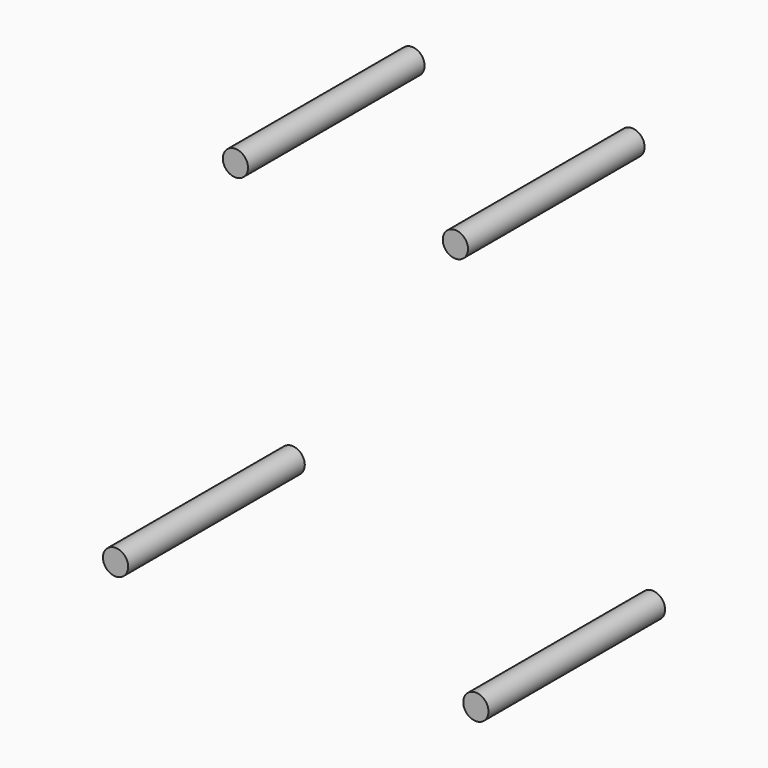
from build123d import *

# Parameters (mm, degrees)
CYLINDER040_R          = 1.6
CYLINDER040_DEPTH      = 28
CYLINDER040_ROLL_ANGLE = 90
CYLINDER037_R          = 1.6
CYLINDER037_DEPTH      = 28
CYLINDER037_ROLL_ANGLE = 90
CYLINDER039_R          = 1.6
CYLINDER039_DEPTH      = 28
CYLINDER039_ROLL_ANGLE = 90
CYLINDER038_R          = 1.6
CYLINDER038_DEPTH      = 28
CYLINDER038_ROLL_ANGLE = 90


with BuildPart() as cylinder092:
    # Cylinder040 → Cylinder040 (new body)
    with BuildSketch(Plane.XY):
        Circle(CYLINDER040_R)
    extrude(amount=CYLINDER040_DEPTH)


with BuildPart() as cylinder092_1:
    # Cylinder040 roll: moved
    add(cylinder092.part.rotate(Axis((0, 0, 0), (1, 0, 0)), CYLINDER040_ROLL_ANGLE))


with BuildPart() as cylinder092_2:
    # Cylinder040 placement: moved
    add(cylinder092_1.part.moved(Location((25.5, 0, -59.8))))


with BuildPart() as fusion075:
    # Cylinder037 → Cylinder037 (new body)
    with BuildSketch(Plane.XY):
        Circle(CYLINDER037_R)
    extrude(amount=CYLINDER037_DEPTH)


with BuildPart() as fusion075_1:
    # Cylinder037 roll: moved
    add(fusion075.part.rotate(Axis((0, 0, 0), (1, 0, 0)), CYLINDER037_ROLL_ANGLE))


with BuildPart() as fusion075_2:
    # Cylinder037 placement: moved
    add(fusion075_1.part.moved(Location((40.7, 0, -10.3))))

    # Fusion075: union Cylinder092
    add(cylinder092_2.part)


with BuildPart() as cylinder091:
    # Cylinder039 → Cylinder039 (new body)
    with BuildSketch(Plane.XY):
        Circle(CYLINDER039_R)
    extrude(amount=CYLINDER039_DEPTH)


with BuildPart() as cylinder091_1:
    # Cylinder039 roll: moved
    add(cylinder091.part.rotate(Axis((0, 0, 0), (1, 0, 0)), CYLINDER039_ROLL_ANGLE))


with BuildPart() as cylinder091_2:
    # Cylinder039 placement: moved
    add(cylinder091_1.part.moved(Location((-5, 0, -9))))


with BuildPart() as screw_holes_on_arduino_duo001:
    # Cylinder038 → Cylinder038 (new body)
    with BuildSketch(Plane.XY):
        Circle(CYLINDER038_R)
    extrude(amount=CYLINDER038_DEPTH)


with BuildPart() as screw_holes_on_arduino_duo001_1:
    # Cylinder038 roll: moved
    add(screw_holes_on_arduino_duo001.part.rotate(Axis((0, 0, 0), (1, 0, 0)), CYLINDER038_ROLL_ANGLE))


with BuildPart() as screw_holes_on_arduino_duo001_2:
    # Cylinder038 placement: moved
    add(screw_holes_on_arduino_duo001_1.part.moved(Location((-2.4, 0, -59.8))))

    # Fusion074: union Cylinder091
    add(cylinder091_2.part)

    # Fusion076: union Fusion075
    add(fusion075_2.part)


with BuildPart() as part_mirroring002:
    # Part__Mirroring002: instance of Screw holes on Arduino Duo001
    add(screw_holes_on_arduino_duo001_2.part.mirror(Plane(origin=(0, 0, 0), x_dir=(0, 1, 0), z_dir=(0, 0, 1))))


with BuildPart() as part_mirroring002_1:
    # Part__Mirroring002 placement: moved
    add(part_mirroring002.part.moved(Location((-4, 10, -67))))


with BuildPart() as part_mirroring003:
    # Part__Mirroring003: instance of Part__Mirroring002
    add(part_mirroring002_1.part.mirror(Plane(origin=(0, 0, 0), x_dir=(0, -1, 0), z_dir=(1, 0, 0))))


with BuildPart() as part_mirroring003_1:
    # Part__Mirroring003 placement: moved
    add(part_mirroring003.part.moved(Location((27, 0, -6))))


solid = part_mirroring003_1.part
